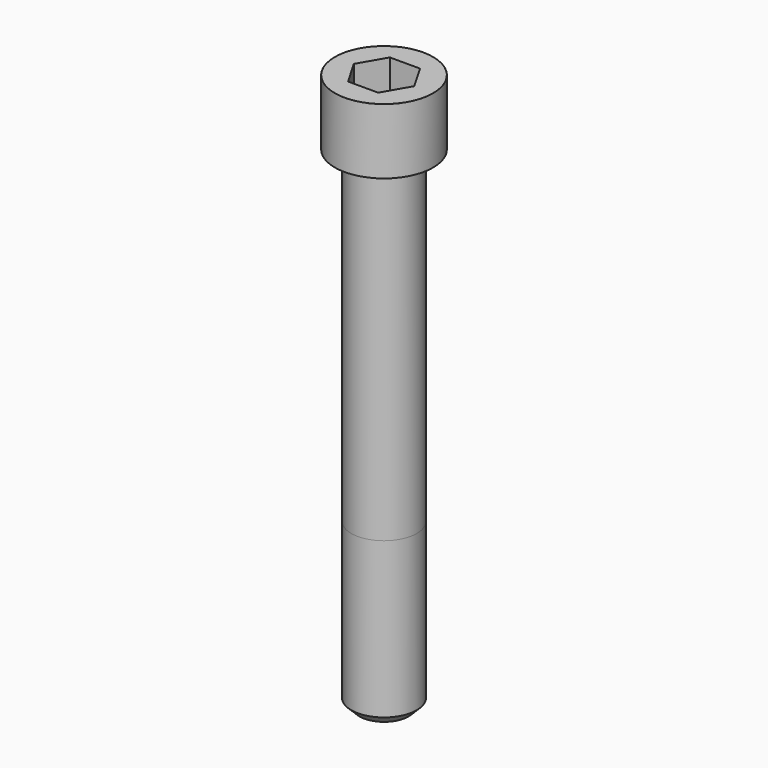
from build123d import *

# Parameters (mm, degrees)
POCKET_DEPTH = 19.15


with BuildPart() as part:
    # Sketch → Revolve (revolve)
    with BuildSketch(Plane.YZ):
        with BuildLine():
            Line((11.999, 0), (18, 0))
            Line((18, 0), (18, 23.97229))
            ThreePointArc((18, 23.97229), (17.991884, 23.991884), (17.97229, 24))
            Line((17.97229, 24), (0, 24))
            Line((0, -180), (0, 24))
            Line((9, -180), (0, -180))
            Line((12, -177), (9, -180))
            Line((12, -120), (12, -177))
            Line((11.999, 0), (12, -120))
        make_face()
    revolve(axis=Axis((0, 0, 0), (0, 0, 1)))

    # Sketch001 → Pocket (cut)
    with BuildSketch(Plane.XY.offset(24)):
        Polygon((11.056258, 0), (5.528129, 9.575), (-5.528129, 9.575), (-11.056258, 0), (-5.528129, -9.575), (5.528129, -9.575), align=None)
    extrude(amount=-POCKET_DEPTH, mode=Mode.SUBTRACT)


solid = part.part
